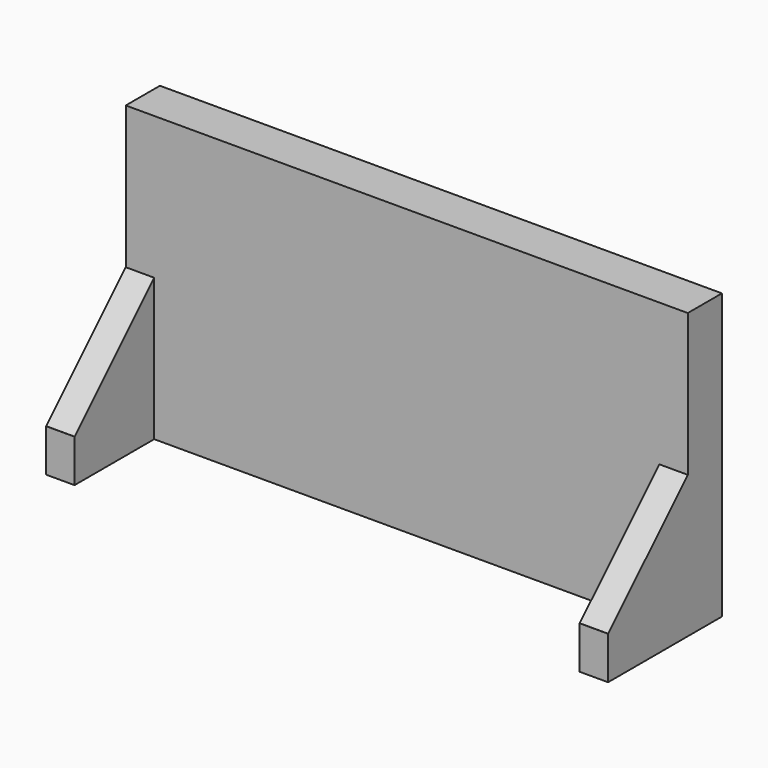
from build123d import *

# Parameters (mm, degrees)
SKETCH_W        = 39.5
SKETCH_H        = 20
PAD_DEPTH       = 3
SKETCH001_W     = 2
SKETCH001_H     = 10
PAD001_DEPTH    = 3
CHAMFER_SIZE    = 6.99
CHAMFER001_SIZE = 6.99


with BuildPart() as part:
    # Sketch → Pad (new body)
    with BuildSketch(Plane.XZ):
        with Locations((19.75, 10)):
            Rectangle(SKETCH_W, SKETCH_H)
    extrude(amount=PAD_DEPTH)

    # Sketch001 → Pad001 (new body)
    with BuildSketch(Plane(origin=(0, 0, 0), x_dir=(1, 0, 0), z_dir=(0, 0, -1))):
        with Locations((38.5, 5)):
            Rectangle(SKETCH001_W, SKETCH001_H)
        with Locations((1, 5)):
            Rectangle(SKETCH001_W, SKETCH001_H)
    extrude(amount=-PAD001_DEPTH)

    # Chamfer
    chamfer_edges = [part.edges().sort_by_distance(p)[0] for p in [
        (38.5, -3, 3),
    ]]
    chamfer(chamfer_edges, length=CHAMFER_SIZE)

    # Chamfer001
    chamfer001_edges = [part.edges().sort_by_distance(p)[0] for p in [
        (1, -3, 3),
    ]]
    chamfer(chamfer001_edges, length=CHAMFER001_SIZE)


solid = part.part
